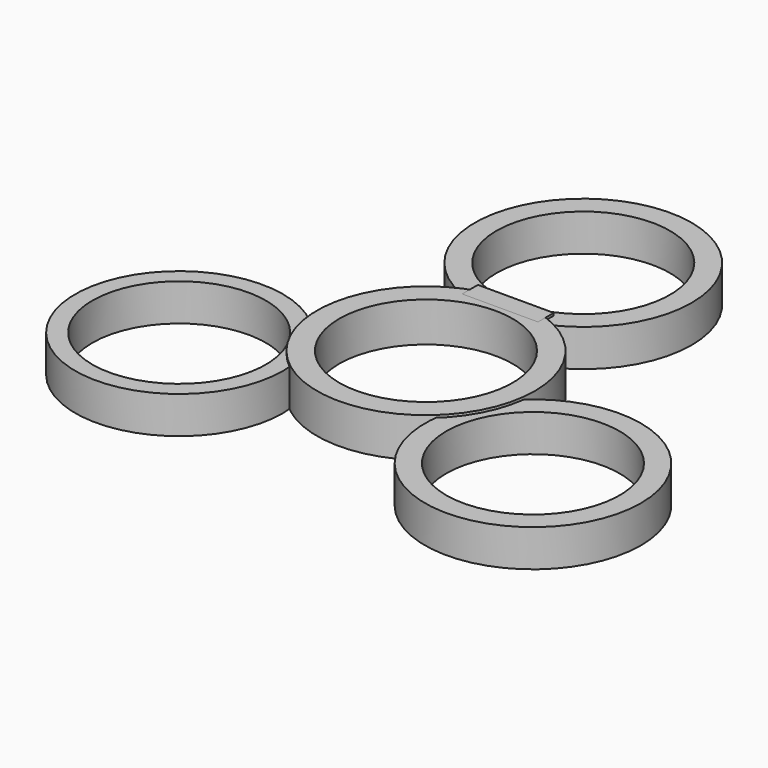
from build123d import *

# Parameters (mm, degrees)
F0_R     = 11.1182295212
F1_DEPTH = 3.81
F0_R_2   = 10.6488108635
F0_R_3   = 11.0736272213
F2_D     = 17.78
F2_2_D   = 17.78
F2_3_D   = 17.78
F3_R     = 11.1698672286
F4_DEPTH = 4.064
F5_D     = 17.78
F6_W     = 7.7707553282
F6_H     = 2.0146397874
F7_DEPTH = 4.064


with BuildPart() as f1:
    # F0 (on Top) → F1 (new body)
    with BuildSketch(Plane.XY):
        with Locations((0, 25.1830033958)):
            Circle(F0_R)
    extrude(amount=F1_DEPTH)

    # F2 (through all)
    with Locations(Plane(origin=(0, 0, 0), x_dir=(1, 0, 0), z_dir=(0, 0, -1))):
        with Locations((0, -25.1830033958), (-17.7000537515, 4.4609890319), (18.5634717345, 4.4609890319)):
            Hole(F2_D / 2)


with BuildPart() as f1b:
    # F0 (on Top) → F1, piece 2 (new body)
    with BuildSketch(Plane.XY):
        with Locations((-17.7000537515, -4.4609890319)):
            Circle(F0_R_2)
    extrude(amount=F1_DEPTH)

    # F2#2 (through all)
    with Locations(Plane(origin=(0, 0, 0), x_dir=(1, 0, 0), z_dir=(0, 0, -1))):
        with Locations((0, -25.1830033958), (-17.7000537515, 4.4609890319), (18.5634717345, 4.4609890319)):
            Hole(F2_2_D / 2)


with BuildPart() as f1c:
    # F0 (on Top) → F1, piece 3 (new body)
    with BuildSketch(Plane.XY):
        with Locations((18.5634717345, -4.4609890319)):
            Circle(F0_R_3)
    extrude(amount=F1_DEPTH)

    # F2#3 (through all)
    with Locations(Plane(origin=(0, 0, 0), x_dir=(1, 0, 0), z_dir=(0, 0, -1))):
        with Locations((0, -25.1830033958), (-17.7000537515, 4.4609890319), (18.5634717345, 4.4609890319)):
            Hole(F2_3_D / 2)


with BuildPart() as f4:
    # F3 (on Top) → F4 (new body)
    with BuildSketch(Plane.XY):
        with Locations((0, 5.0366008654)):
            Circle(F3_R)
    extrude(amount=F4_DEPTH)

    # F5 (through all)
    with Locations(Plane(origin=(0, 0, 0), x_dir=(1, 0, 0), z_dir=(0, 0, -1))):
        with Locations((0, -5.0366008654)):
            Hole(F5_D / 2)


with BuildPart() as f7:
    # F6 (on Top) → F7 (new body)
    with BuildSketch(Plane.XY):
        with Locations((0, 15.5415111221)):
            Rectangle(F6_W, F6_H)
    extrude(amount=F7_DEPTH)


solid = Compound([f1.part, f1b.part, f1c.part, f4.part, f7.part])
